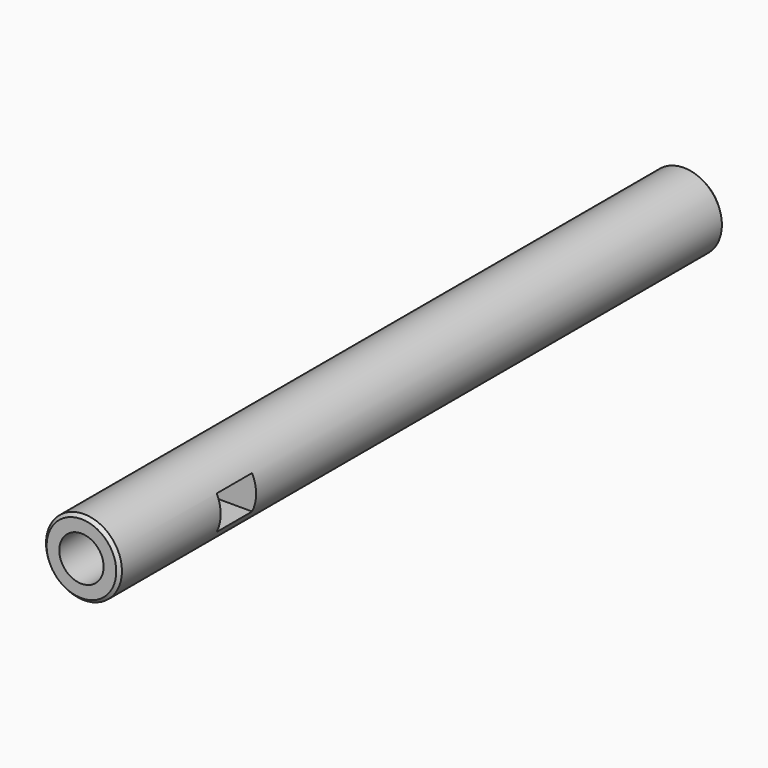
from build123d import *

# Parameters (mm, degrees)
F0_R     = 6
F1_DEPTH = 120
F2_R     = 3.5
F3_DEPTH = 20
F5_SIZE  = 1
F6_SIZE  = 0.5
F7_W     = 7
F7_H     = 2.68
F8_DEPTH = 12.5


with BuildPart() as f1:
    # F0 (on Front) → F1 (new body)
    with BuildSketch(Plane.XZ):
        Circle(F0_R)
    extrude(amount=F1_DEPTH)

    # F2 (on face) → F3 (cut)
    with BuildSketch(Plane.XZ.offset(120)):
        Circle(F2_R)
    extrude(amount=-F3_DEPTH, mode=Mode.SUBTRACT)

    # F5
    f5_edges = [f1.edges().sort_by_distance(p)[0] for p in [
        (-6, 0, 0),
    ]]
    chamfer(f5_edges, length=F5_SIZE)

    # F6
    f6_edges = [f1.edges().sort_by_distance(p)[0] for p in [
        (-6, -120, 0),
    ]]
    chamfer(f6_edges, length=F6_SIZE)

    # F7 (on Right) → F8 (cut, symmetric)
    with BuildSketch(Plane.YZ):
        with Locations((-96.5, 1.34)):
            Rectangle(F7_W, F7_H)
        with Locations((-96.5, -1.34)):
            Rectangle(F7_W, F7_H)
    extrude(amount=F8_DEPTH, both=True, mode=Mode.SUBTRACT)


solid = f1.part
